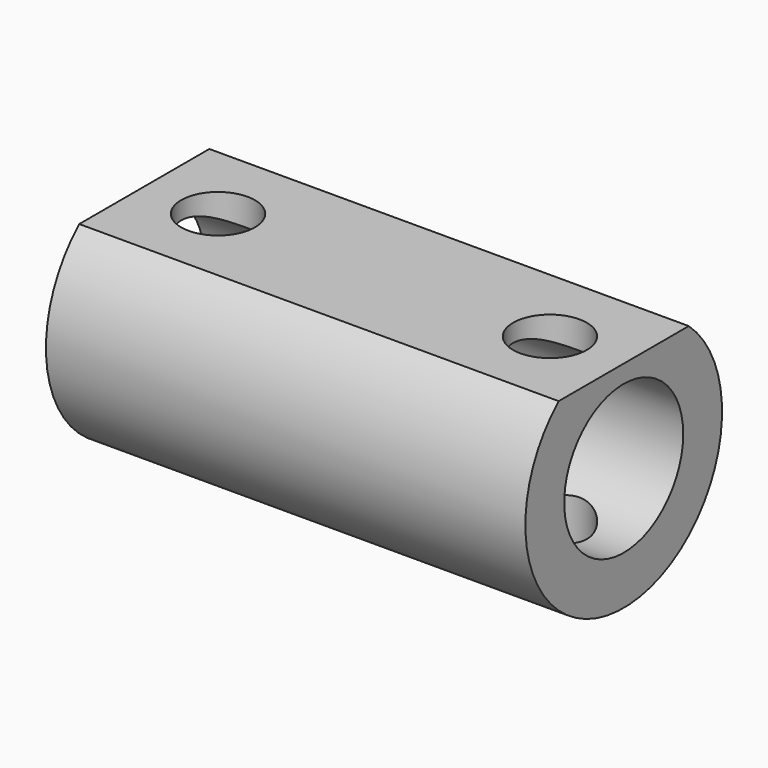
from build123d import *

# Parameters (mm, degrees)
F0_R     = 6.05
F1_DEPTH = 39
F3_D     = 6


with BuildPart() as f1:
    # F0 (on Right) → F1 (new body)
    with BuildSketch(Plane.YZ):
        with BuildLine():
            Line((6.614378, 7.5), (-6.614378, 7.5))
            ThreePointArc((-6.614378, 7.5), (0, -10), (6.614378, 7.5))
        make_face()
        Circle(F0_R, mode=Mode.SUBTRACT)
    extrude(amount=F1_DEPTH)

    # F3 (through all)
    with Locations(Plane.XY.offset(7.5)):
        with Locations((6, 0), (33, 0)):
            Hole(F3_D / 2)


solid = f1.part
